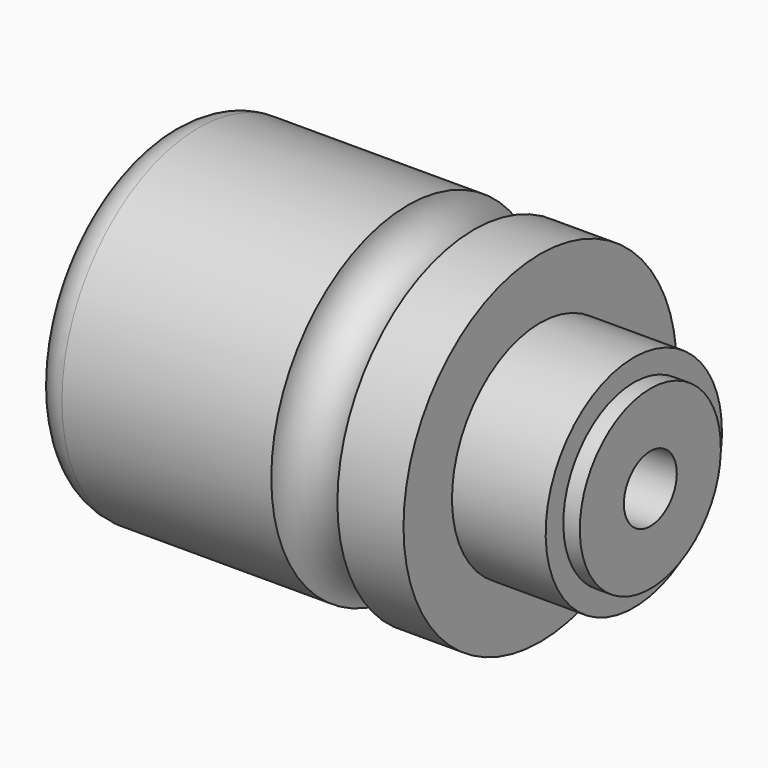
from build123d import *

# Parameters (mm, degrees)
F2_R        = 6
F1_FACE_R   = 25
F1_FACE_R_2 = 16
F3_DEPTH    = 1.5


with BuildPart() as f1:
    # F0 (on Front) → F1 (revolve)
    with BuildSketch(Plane.XZ):
        with BuildLine():
            Line((-26, 6), (32, 6))
            Line((32, 6), (32, 16))
            Line((32, 16), (29, 16))
            Line((29, 16), (29, 20))
            Line((29, 20), (12, 20))
            Line((12, 20), (12, 31))
            Line((12, 31), (0, 31))
            ThreePointArc((0, 31), (-6, 25), (-12, 31))
            Line((-12, 31), (-56, 31))
            Line((-56, 31), (-56, 16))
            Line((-56, 16), (-44, 16))
            Line((-44, 16), (-44, 12.5))
            Line((-44, 12.5), (-41, 12.5))
            Line((-41, 12.5), (-41, 20.5))
            Line((-41, 20.5), (-34, 20.5))
            Line((-34, 20.5), (-34, 12.5))
            Line((-34, 12.5), (-26, 12.5))
            Line((-26, 12.5), (-26, 6))
        make_face()
    revolve(axis=Axis((0, 0, 0), (1, 0, 0)))

    # F2
    f2_edges = [f1.edges().sort_by_distance(p)[0] for p in [
        (-56, 0, -31),
    ]]
    fillet(f2_edges, radius=F2_R)

    # F1_face (on face) → F3 (cut)
    with BuildSketch(Plane(origin=(-56, 0, 0), x_dir=(0, -1, 0), z_dir=(-1, 0, 0))):
        Circle(F1_FACE_R)
        Circle(F1_FACE_R_2, mode=Mode.SUBTRACT)
    extrude(amount=-F3_DEPTH, mode=Mode.SUBTRACT)


solid = f1.part
